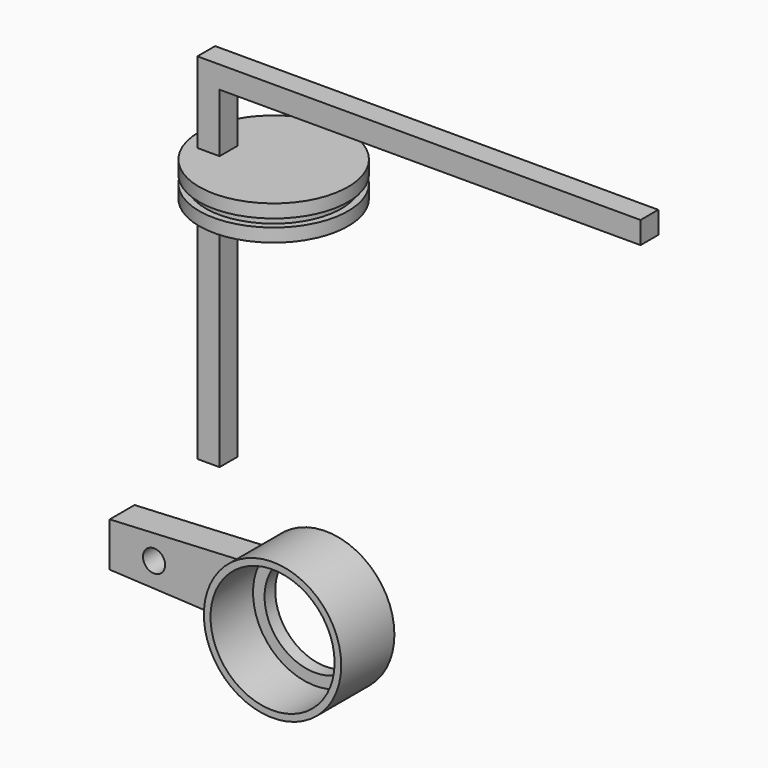
from build123d import *

# Parameters (mm, degrees)
F2_R      = 12.5
F3_DEPTH  = 6
F4_R      = 15.5
F5_DEPTH  = 15
F6_R      = 14
F7_DEPTH  = 12
F9_DEPTH  = 7
F10_R     = 11.4
F11_DEPTH = 25
F13_D     = 5
F14_W     = 5
F14_H     = 75
F15_DEPTH = 5


with BuildPart() as f1:
    # F0 (on Front) → F1 (revolve)
    with BuildSketch(Plane.XZ):
        Polygon((-28.545385, 3), (-28.545385, 0), (-11.745385, 0), (-11.745385, 7.8), (-28.545385, 7.8), (-28.545385, 4.8), (-27.045385, 4.8), (-27.045385, 3), align=None)
    revolve(axis=Axis((-11.745385, 0, 3.9), (0, 0, -1)))

    # F2 (on face) → F3 (cut)
    with BuildSketch(Plane(origin=(0, 0, 0), x_dir=(1, 0, 0), z_dir=(0, 0, -1))):
        with Locations((-11.745385, 0)):
            Circle(F2_R)
    extrude(amount=-F3_DEPTH, mode=Mode.SUBTRACT)


with BuildPart() as f5:
    # F4 (on Front) → F5 (new body)
    with BuildSketch(Plane.XZ):
        with Locations((0, -77.741298)):
            Circle(F4_R)
    extrude(amount=F5_DEPTH)

    # F6 (on face) → F7 (cut)
    with BuildSketch(Plane.XZ.offset(15)):
        with Locations((0, -77.741298)):
            Circle(F6_R)
    extrude(amount=-F7_DEPTH, mode=Mode.SUBTRACT)

    # F8 (on face) → F9 (join)
    with BuildSketch(Plane(origin=(0, 0, 0), x_dir=(-1, 0, 0), z_dir=(0, 1, 0))):
        with BuildLine():
            Line((43.138498, -71.072604), (13.17578, -69.577425))
            ThreePointArc((13.17578, -69.577425), (14.657159, -72.699703), (15.409914, -76.072604))
            Line((15.409914, -76.072604), (43.138498, -76.072604))
            Line((43.138498, -76.072604), (43.138498, -71.072604))
        make_face()
        with BuildLine():
            Line((43.138498, -76.072604), (15.409914, -76.072604))
            ThreePointArc((15.409914, -76.072604), (15.477462, -76.905736), (15.5, -77.741298))
            ThreePointArc((15.5, -77.741298), (15.312613, -80.144187), (14.754983, -82.488978))
            Line((14.754983, -82.488978), (43.138498, -81.072604))
            Line((43.138498, -81.072604), (43.138498, -76.072604))
        make_face()
    extrude(amount=-F9_DEPTH)

    # F10 (on face) → F11 (cut)
    with BuildSketch(Plane.XZ.offset(3)):
        with Locations((0, -77.741298)):
            Circle(F10_R)
    extrude(amount=-F11_DEPTH, mode=Mode.SUBTRACT)

    # F13 (through all)
    with Locations(Plane.XZ.offset(7)):
        with Locations((-33.138498, -76.072604)):
            Hole(F13_D / 2)


with BuildPart() as f15:
    # F14 (on Front) → F15 (new body)
    with BuildSketch(Plane.XZ):
        Polygon((75.045152, 26.018666), (-24.954848, 26.018666), (-24.954848, 21.018666), (-19.954848, 21.018666), (75.045152, 21.018666), align=None)
        with Locations((-22.454848, -16.481334)):
            Rectangle(F14_W, F14_H)
    extrude(amount=F15_DEPTH)


solid = Compound([f1.part, f5.part, f15.part])
